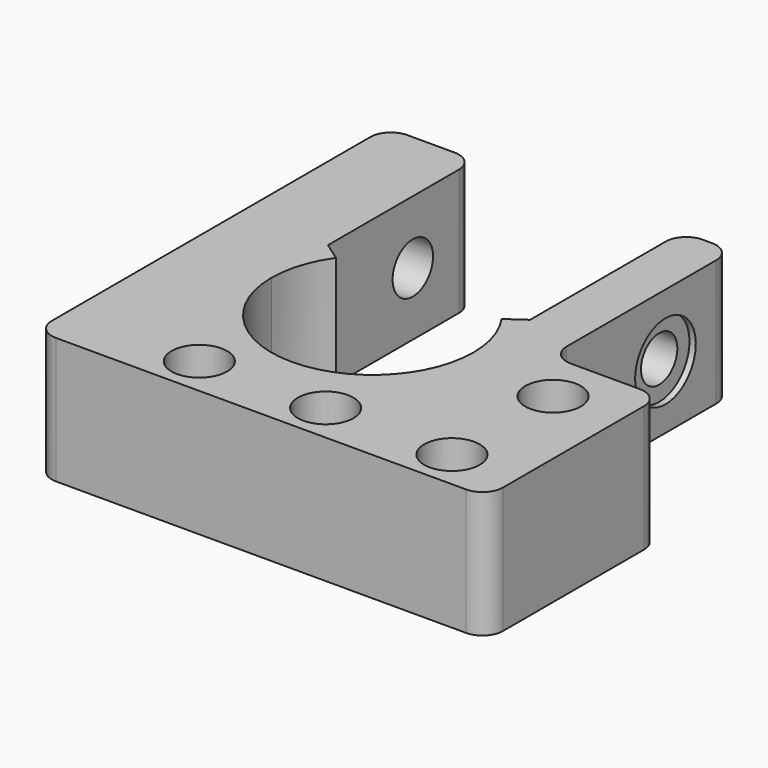
from build123d import *

# Parameters (mm, degrees)
CYLINDER011012_R               = 1.8
CYLINDER011012_DEPTH           = 20
CYLINDER011013_R               = 3
CYLINDER011013_DEPTH           = 20
CYLINDER011010_R               = 2.2
CYLINDER011010_DEPTH           = 100
ARRAY008_X_COUNT               = 3
ARRAY008_X_PITCH               = 10
ARRAY008_Y_COUNT               = 3
ARRAY008_Y_PITCH               = 10
CYLINDER011011_R               = 2
CYLINDER011011_DEPTH           = 20
CYLINDER011014_R               = 8
CYLINDER011014_DEPTH           = 10
CYLINDER011015_W               = 11
CYLINDER011015_H               = 10
CYLINDER011015_ANGLE           = 250
CYLINDER011015_PLACEMENT_ANGLE = 145
PAD_DEPTH                      = 10


with BuildPart() as bolt_hole001:
    # Cylinder011012 → Cylinder011012 (new body)
    with BuildSketch(Plane(origin=(-1, 14, 5), x_dir=(0, 0, -1), z_dir=(1, 0, 0))):
        Circle(CYLINDER011012_R)
    extrude(amount=CYLINDER011012_DEPTH)


with BuildPart() as bolt_head_hole:
    # Cylinder011013 → Cylinder011013 (new body)
    with BuildSketch(Plane(origin=(11.5, 14, 5), x_dir=(0, 0, -1), z_dir=(1, 0, 0))):
        Circle(CYLINDER011013_R)
    extrude(amount=CYLINDER011013_DEPTH)


with BuildPart() as general_insert_hole_array:
    # Cylinder011010 → Cylinder011010 (new body)
    with BuildSketch(Plane.XY):
        Circle(CYLINDER011010_R)
    extrude(amount=CYLINDER011010_DEPTH)

    # Array008 X: general insert hole array ×3


with BuildPart() as general_insert_hole_array_1:
    add(general_insert_hole_array.part)
    with Locations(*[(i * ARRAY008_X_PITCH, 0, 0) for i in range(1, ARRAY008_X_COUNT)]):
        add(general_insert_hole_array.part)

    # Array008 Y: general insert hole array ×3


with BuildPart() as general_insert_hole_array_2:
    add(general_insert_hole_array_1.part)
    with Locations(*[(0, i * ARRAY008_Y_PITCH, 0) for i in range(1, ARRAY008_Y_COUNT)]):
        add(general_insert_hole_array_1.part)


with BuildPart() as general_insert_hole_array_3:
    # Array008 placement: moved
    add(general_insert_hole_array_2.part.moved(Location((-4.5, -21.5, -13))))


with BuildPart() as obj1:
    # Cylinder011011 → Cylinder011011 (new body)
    with BuildSketch(Plane(origin=(-22, 14, 5), x_dir=(0, 0, -1), z_dir=(1, 0, 0))):
        Circle(CYLINDER011011_R)
    extrude(amount=CYLINDER011011_DEPTH)

    # Fusion004: union bolt hole001, bolt head hole, general insert hole array
    add(bolt_hole001.part)
    add(bolt_head_hole.part)
    add(general_insert_hole_array_3.part)


with BuildPart() as cylinder:
    # Cylinder011014 → Cylinder011014 (new body)
    with BuildSketch(Plane.XY):
        Circle(CYLINDER011014_R)
    extrude(amount=CYLINDER011014_DEPTH)


with BuildPart() as cut023015009010:
    # Cylinder011015 → Cylinder011015 (revolve)
    with BuildSketch(Plane.XZ):
        with Locations((5.5, 5)):
            Rectangle(CYLINDER011015_W, CYLINDER011015_H)
    revolve(axis=Axis((0, 0, 0), (0, 0, 1)), revolution_arc=CYLINDER011015_ANGLE)


with BuildPart() as cut023015009010_1:
    # Cylinder011015 placement: moved
    add(cut023015009010.part.rotate(Axis((0, 0, 0), (0, 0, 1)), CYLINDER011015_PLACEMENT_ANGLE))

    # Cut023015009010: cut Cylinder
    add(cylinder.part, mode=Mode.SUBTRACT)


with BuildPart() as shaft_attachment_cut:
    # Sketch002 → Pad (new body)
    with BuildSketch(Plane.XY):
        with BuildLine():
            Line((19.091117, -14.6), (-13.372183, -14.6))
            ThreePointArc((-15, -12.972183), (-14.523223, -14.123223), (-13.372183, -14.6))
            Line((-15, 18.544728), (-15, -12.972183))
            ThreePointArc((-13.372183, 20.172545), (-14.523223, 19.695769), (-15, 18.544728))
            Line((-9.627817, 20.172545), (-13.372183, 20.172545))
            ThreePointArc((-8, 18.544728), (-8.476777, 19.695769), (-9.627817, 20.172545))
            Line((-8, 0), (-8, 18.544728))
            ThreePointArc((-8, 0), (0, -8), (8, 0))
            Line((8, 19.017869), (8, 0))
            ThreePointArc((9.627817, 20.645687), (8.476777, 20.16891), (8, 19.017869))
            Line((10.372183, 20.645687), (9.627817, 20.645687))
            ThreePointArc((12, 19.017869), (11.523223, 20.16891), (10.372183, 20.645687))
            Line((12, 4.227817), (12, 19.017869))
            ThreePointArc((12, 4.227817), (12.476777, 3.076777), (13.627817, 2.6))
            Line((19.091117, 2.6), (13.627817, 2.6))
            ThreePointArc((20.718934, 0.972183), (20.242157, 2.123223), (19.091117, 2.6))
            Line((20.718934, -12.972183), (20.718934, 0.972183))
            ThreePointArc((19.091117, -14.6), (20.242157, -14.123223), (20.718934, -12.972183))
        make_face()
    extrude(amount=PAD_DEPTH)

    # Fusion005: union Cut023015009010
    add(cut023015009010_1.part)

    # Cut023015009009: cut obj1
    add(obj1.part, mode=Mode.SUBTRACT)


solid = shaft_attachment_cut.part
